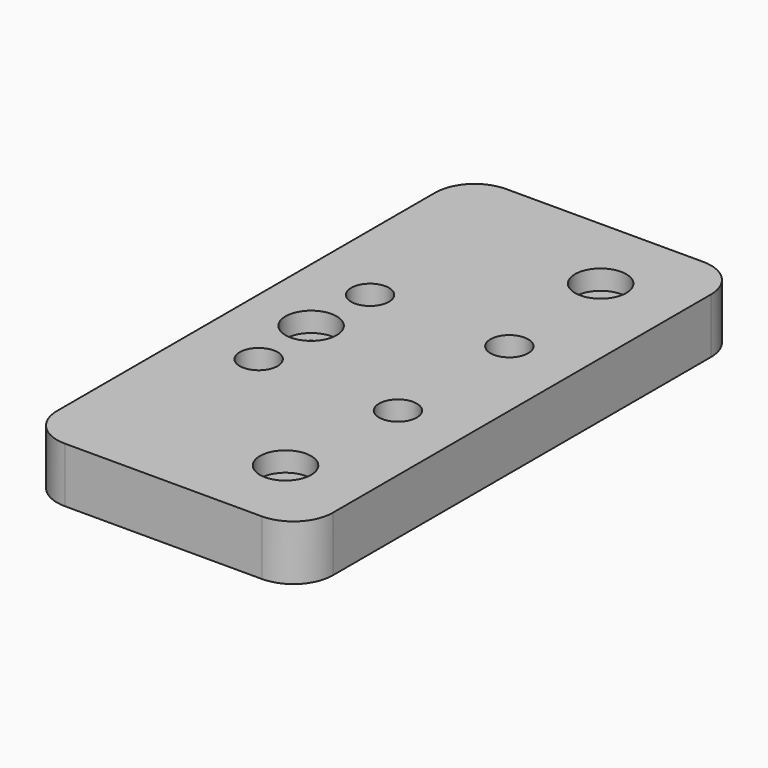
from build123d import *

# Parameters (mm, degrees)
SKETCH054_W     = 35
SKETCH054_H     = 70
PAD009_DEPTH    = 7
SKETCH055_R     = 1.6
SKETCH055_R_2   = 2.4
POCKET035_DEPTH = 10
SKETCH056_R     = 3.25
POCKET036_DEPTH = 2.5
FILLET004_R     = 5


with BuildPart() as part:
    # Sketch054 → Pad009 (new body)
    with BuildSketch(Plane.XY):
        Rectangle(SKETCH054_W, SKETCH054_H)
    extrude(amount=PAD009_DEPTH)

    # Sketch055 (on Face6 of Pad009) → Pocket035 (cut)
    with BuildSketch(Plane.XY.offset(7)):
        with Locations((7.5, 25)):
            Circle(SKETCH055_R)
        with Locations((-9.25, 0)):
            Circle(SKETCH055_R)
        with Locations((7.5, -25)):
            Circle(SKETCH055_R)
        with Locations((-8.8388347648, 8.8388347648)):
            Circle(SKETCH055_R_2)
        with Locations((8.8388347648, 8.8388347648)):
            Circle(SKETCH055_R_2)
        with Locations((-8.8388347648, -8.8388347648)):
            Circle(SKETCH055_R_2)
        with Locations((8.8388347648, -8.8388347648)):
            Circle(SKETCH055_R_2)
    extrude(amount=-POCKET035_DEPTH, mode=Mode.SUBTRACT)

    # Sketch056 (on Face5 of Pocket035) → Pocket036 (cut)
    with BuildSketch(Plane.XY.offset(7)):
        with Locations((-9.25, 0)):
            Circle(SKETCH056_R)
        with Locations((7.5, 25)):
            Circle(SKETCH056_R)
        with Locations((7.5, -25)):
            Circle(SKETCH056_R)
    extrude(amount=-POCKET036_DEPTH, mode=Mode.SUBTRACT)

    # Fillet004
    fillet004_edges = [part.edges().sort_by_distance(p)[0] for p in [
        (-17.5, -35, 3.5),
        (17.5, -35, 3.5),
        (-17.5, 35, 3.5),
        (17.5, 35, 3.5),
    ]]
    fillet(fillet004_edges, radius=FILLET004_R)


solid = part.part
